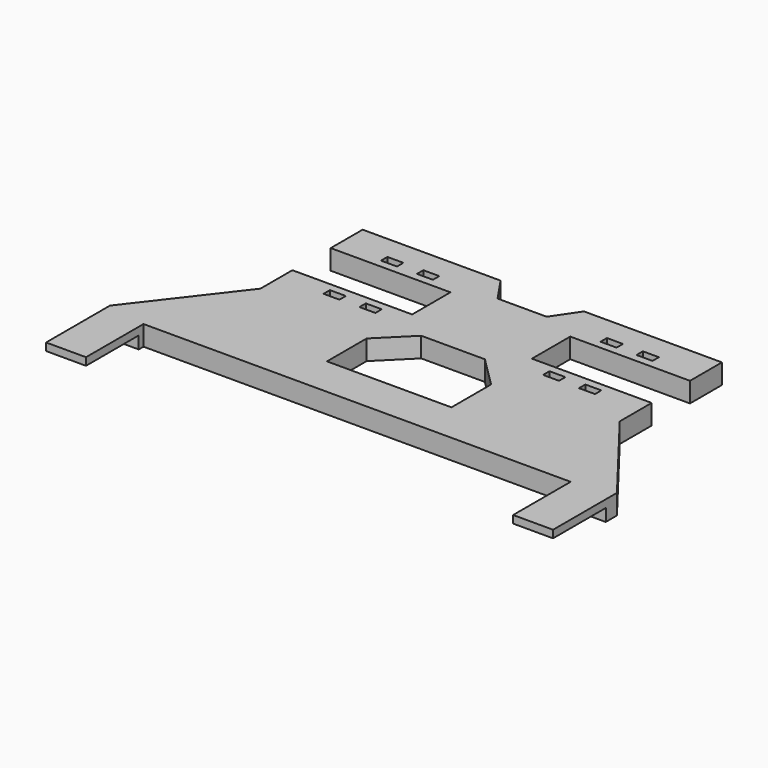
from build123d import *

# Parameters (mm, degrees)
PAD005005_DEPTH      = 2.5
SKETCH014_W          = 4
SKETCH014_H          = 2
POCKET003_DEPTH      = 298.676624
POCKET003_DEPTH_BACK = 298.676624
POCKET004_DEPTH      = 2.501
POCKET004_DEPTH_BACK = 2.501
POCKET005_DEPTH      = 2.501
POCKET005_DEPTH_BACK = 2.501
SKETCH017_W          = 10.816708
SKETCH017_H          = 3.71916
POCKET006_DEPTH      = 312.676624


with BuildPart() as part:
    # Sketch013 → Pad005005 (new body, symmetric)
    with BuildSketch(Plane.XY):
        Polygon((-45, 0), (-15, 0), (-15, 12), (-45, 12), (-45, 22), (45, 22), (45, 12), (15, 12), (15, 0), (45, 0), (45, -10), (63.5, -34), (63.5, -54), (53.5, -54), (53.5, -36), (-53.5, -36), (-53.5, -54), (-63.5, -54), (-63.5, -34), (-45, -10), align=None)
    extrude(amount=PAD005005_DEPTH, both=True)

    # Sketch014 → Pocket003 (cut, two sides)
    with BuildSketch(Plane.XY) as pocket003_sk:
        with Locations((-32, -3)):
            Rectangle(SKETCH014_W, SKETCH014_H)
        with Locations((-32, 15)):
            Rectangle(SKETCH014_W, SKETCH014_H)
        with Locations((-23, -3)):
            Rectangle(SKETCH014_W, SKETCH014_H)
        with Locations((-23, 15)):
            Rectangle(SKETCH014_W, SKETCH014_H)
    pocket003 = extrude(amount=-POCKET003_DEPTH, mode=Mode.SUBTRACT) + extrude(pocket003_sk.sketch, amount=POCKET003_DEPTH_BACK, mode=Mode.SUBTRACT)

    # Mirrored002: Pocket003 across Sketch014 V_Axis
    add(pocket003.mirror(Plane(origin=(0, 0, 0), x_dir=(0, 0, 1), z_dir=(1, 0, 0))), mode=Mode.SUBTRACT)

    # Sketch015 → Pocket004 (cut, two sides)
    with BuildSketch(Plane.XY) as pocket004_sk:
        Polygon((-11.314059, 23.254717), (-6.157998, 15.686502), (6.157998, 15.686502), (11.314059, 23.254717), align=None)
    extrude(amount=-POCKET004_DEPTH, mode=Mode.SUBTRACT)
    extrude(pocket004_sk.sketch, amount=POCKET004_DEPTH_BACK, mode=Mode.SUBTRACT)

    # Sketch016 → Pocket005 (cut, two sides)
    with BuildSketch(Plane.XY) as pocket005_sk:
        Polygon((-7.975373, -5.942453), (-15.591735, -13.506808), (-15.591735, -25.932104), (15.591735, -25.932104), (15.591735, -13.506808), (7.975373, -5.942453), align=None)
    extrude(amount=-POCKET005_DEPTH, mode=Mode.SUBTRACT)
    extrude(pocket005_sk.sketch, amount=POCKET005_DEPTH_BACK, mode=Mode.SUBTRACT)

    # Sketch017 → Pocket006 (cut, through all)
    with BuildSketch(Plane.XZ.offset(37.5)):
        with Locations((-58.423876, -1.261529)):
            Rectangle(SKETCH017_W, SKETCH017_H)
    pocket006 = extrude(amount=POCKET006_DEPTH, mode=Mode.SUBTRACT)

    # Mirrored003: Pocket006 across Sketch017 V_Axis
    add(pocket006.mirror(Plane(origin=(0, -37.5, 0), x_dir=(0, -1, 0), z_dir=(1, 0, 0))), mode=Mode.SUBTRACT)


solid = part.part
